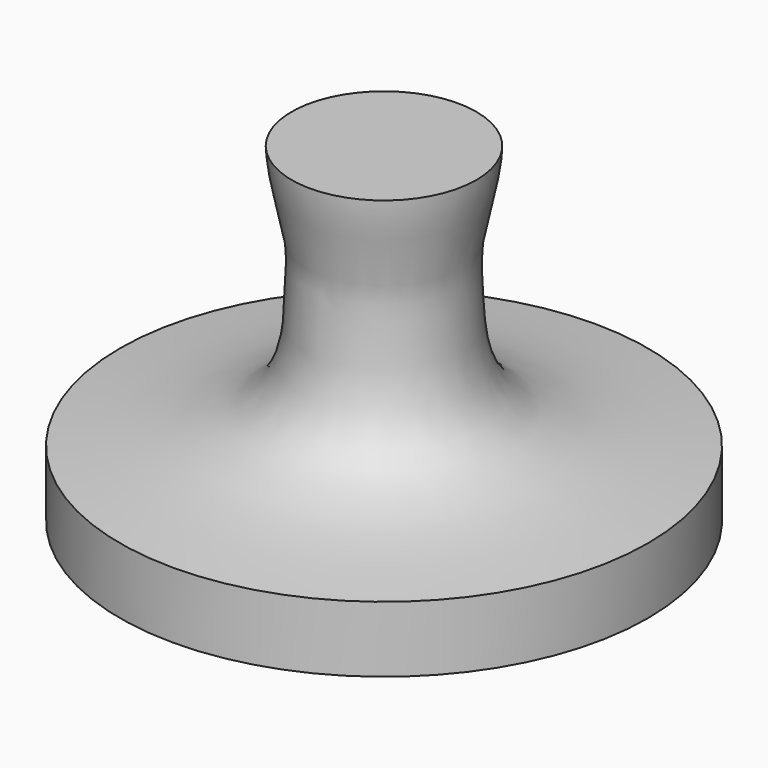
from build123d import *


with BuildPart() as f2:
    # F0 (on Front) → F2 (revolve)
    with BuildSketch(Plane.XZ):
        with BuildLine():
            Line((0, 25), (0, 0))
            Line((0, 0), (20, 0))
            Line((20, 0), (20, 5))
            add(Edge.make_bspline(
                [(20, 5), (15.0432008303, 5.5390673577), (6.1044665974, 6.5274552895), (5.8995721306, 15.4227398838), (5.6227595549, 19.1470782789), (6.9275492823, 22.9596758679), (7, 25)],
                knots=[0, 0, 0, 0, 0.3374795184, 0.5854923121, 0.7715980908, 1, 1, 1, 1], degree=3))
            Line((7, 25), (0, 25))
        make_face()
    revolve(axis=Axis((0, 0, 32.5), (0, 0, 1)))


solid = f2.part
